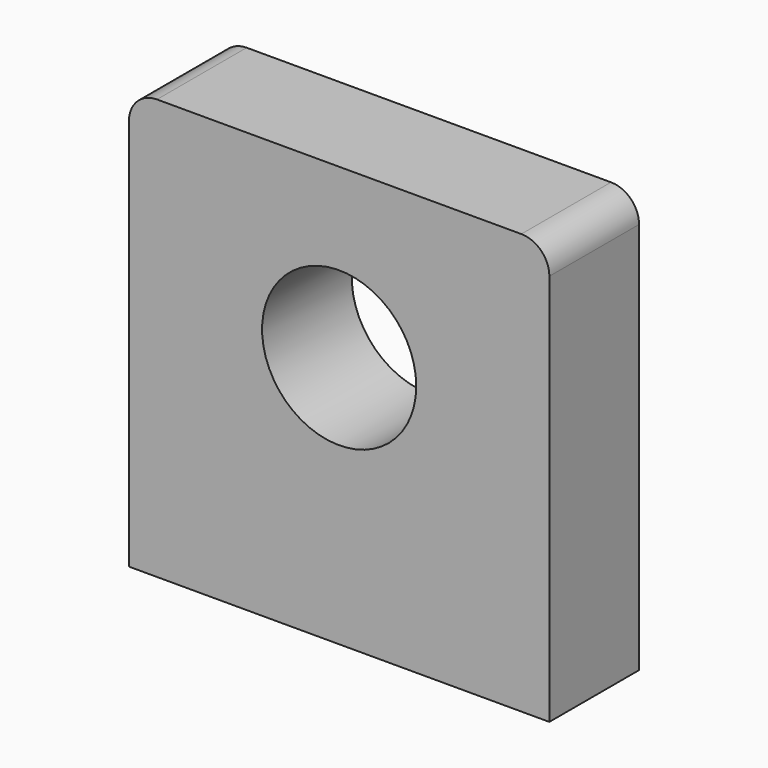
from build123d import *

# Parameters (mm, degrees)
F0_R     = 5.5
F1_DEPTH = 8


with BuildPart() as f1:
    # F0 (on Front) → F1 (new body)
    with BuildSketch(Plane.XZ):
        with BuildLine():
            Line((-15, -15), (15, -15))
            Line((15, -15), (15, 13))
            ThreePointArc((15, 13), (14.414214, 14.414214), (13, 15))
            Line((13, 15), (-13, 15))
            ThreePointArc((-13, 15), (-14.414214, 14.414214), (-15, 13))
            Line((-15, 13), (-15, -15))
        make_face()
        with Locations((0, 3)):
            Circle(F0_R, mode=Mode.SUBTRACT)
    extrude(amount=F1_DEPTH)


solid = f1.part
